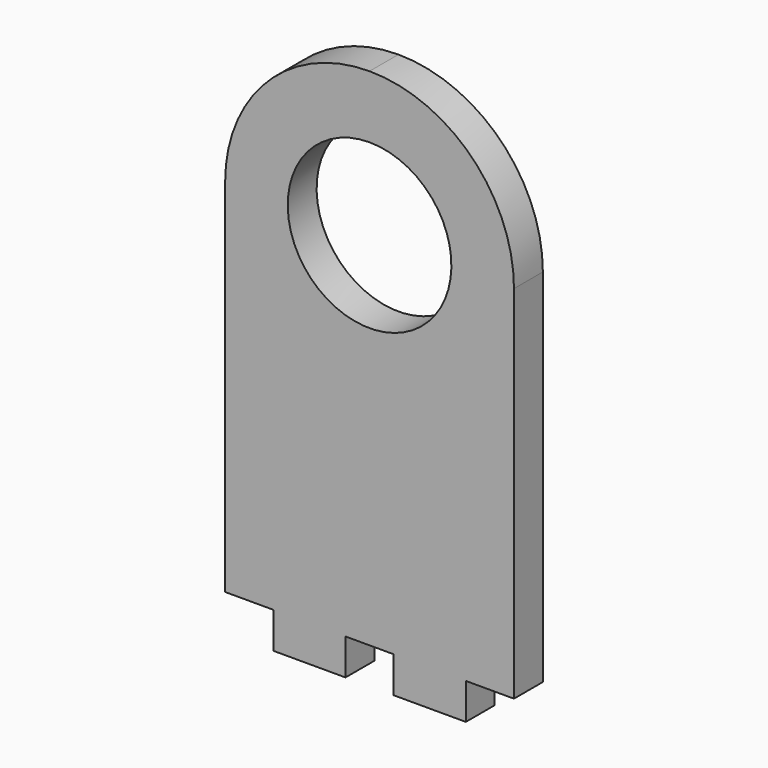
from build123d import *

# Parameters (mm, degrees)
F1_DEPTH = 3


with BuildPart() as f1:
    # F0 (on Front) → F1 (new body)
    with BuildSketch(Plane.XZ):
        with BuildLine():
            Line((-2, 0), (0, 0))
            Line((0, 0), (2, 0))
            Line((2, 0), (2, -3))
            Line((2, -3), (8, -3))
            Line((8, -3), (8, 0))
            Line((8, 0), (12, 0))
            Line((12, 0), (12, 30))
            ThreePointArc((12, 30), (8.485281, 38.485281), (0, 42))
            ThreePointArc((0, 42), (-8.485281, 38.485281), (-12, 30))
            Line((-12, 30), (-12, 0))
            Line((-12, 0), (-8, 0))
            Line((-8, 0), (-8, -3))
            Line((-8, -3), (-2, -3))
            Line((-2, -3), (-2, 0))
        make_face()
        with BuildLine():
            ThreePointArc((0, 23.2), (-6.8, 30), (0, 36.8))
            ThreePointArc((0, 36.8), (6.8, 30), (0, 23.2))
        make_face(mode=Mode.SUBTRACT)
    extrude(amount=F1_DEPTH)


solid = f1.part
